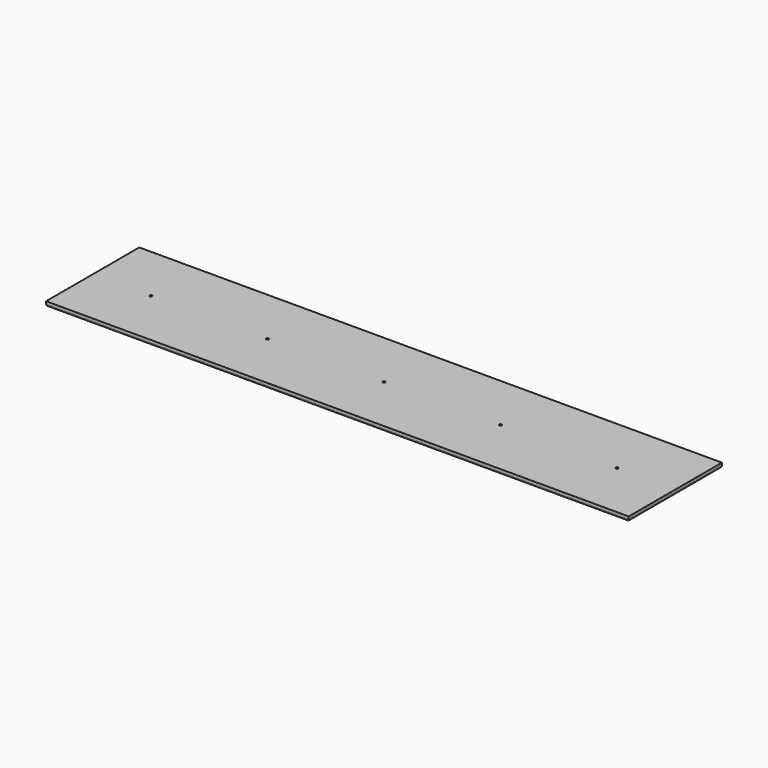
from build123d import *

# Parameters (mm, degrees)
F0_W          = 1524
F0_H          = 304.8
F2_DEPTH      = 12.7
F1_R          = 3.1470051967
F1_R_2        = 3.3931415127
F1_R_3        = 3.5945394666
F1_R_4        = 3.2819860345
F1_R_5        = 3.175
F3_DEPTH      = 25.4
F3_DEPTH_BACK = 25.4
F4_R          = 6.35


with BuildPart() as f2:
    # F0 (on Top) → F2 (new body)
    with BuildSketch(Plane.XY):
        Rectangle(F0_W, F0_H)
    extrude(amount=F2_DEPTH)

    # F1 (on Top) → F3 (cut, two sides)
    with BuildSketch(Plane.XY) as f3_sk:
        Circle(F1_R)
        with Locations((304.8, 0)):
            Circle(F1_R_2)
        with Locations((609.6, 0)):
            Circle(F1_R_3)
        with Locations((-304.8, 0)):
            Circle(F1_R_4)
        with Locations((-609.6, 0)):
            Circle(F1_R_5)
    extrude(amount=-F3_DEPTH, mode=Mode.SUBTRACT)
    extrude(f3_sk.sketch, amount=F3_DEPTH_BACK, mode=Mode.SUBTRACT)

    # F4
    f4_edges = [f2.edges().sort_by_distance(p)[0] for p in [
        (0, -152.4, 0),
        (762, 0, 0),
        (-762, 0, 0),
        (0, 152.4, 0),
    ]]
    fillet(f4_edges, radius=F4_R)


solid = f2.part
